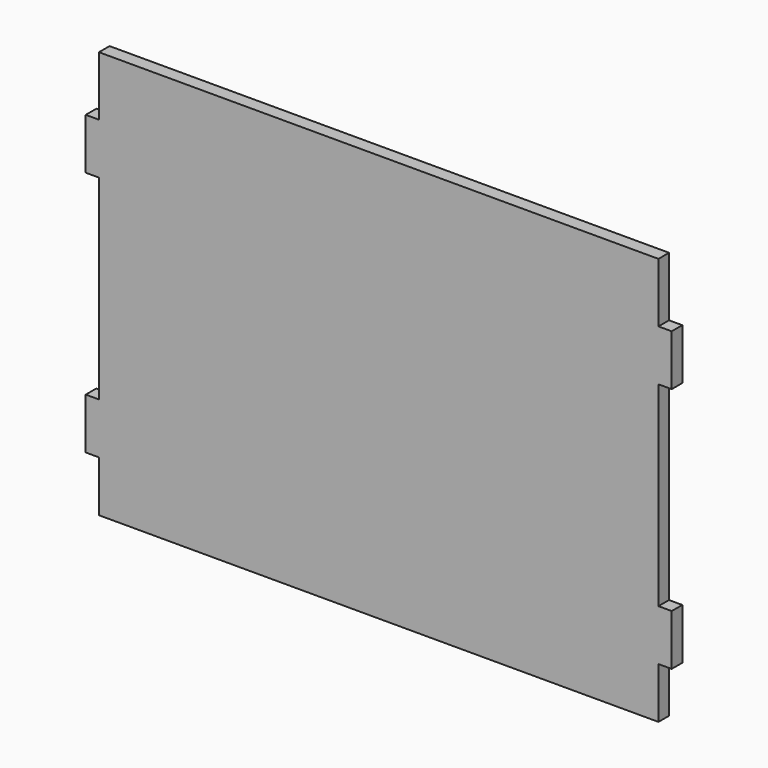
from build123d import *

# Parameters (mm, degrees)
F0_W          = 19.812
F0_H          = 76.2
F0_H_2        = 88.9
F0_H_3        = 292.1
F1_DEPTH      = 836.676
F2_DEPTH      = 19.812
F2_DEPTH_BACK = 856.488


with BuildPart() as f1:
    # F0 (on Right) → F1 (new body)
    with BuildSketch(Plane.YZ):
        with Locations((-55.2229133244, 98.4447455046)):
            Rectangle(F0_W, F0_H)
        with Locations((-55.2229133244, 466.7447455046)):
            Rectangle(F0_W, F0_H)
        with Locations((-55.2229133244, 549.2947455046)):
            Rectangle(F0_W, F0_H_2)
        with Locations((-55.2229133244, 282.5947455046)):
            Rectangle(F0_W, F0_H_3)
        with Locations((-55.2229133244, 22.2447455046)):
            Rectangle(F0_W, F0_H)
    extrude(amount=F1_DEPTH)

    # F0 (on Right) → F2 (join, two sides)
    with BuildSketch(Plane.YZ) as f2_sk:
        with Locations((-55.2229133244, 466.7447455046)):
            Rectangle(F0_W, F0_H)
        with Locations((-55.2229133244, 98.4447455046)):
            Rectangle(F0_W, F0_H)
    extrude(amount=-F2_DEPTH)
    extrude(f2_sk.sketch, amount=F2_DEPTH_BACK)


solid = f1.part
